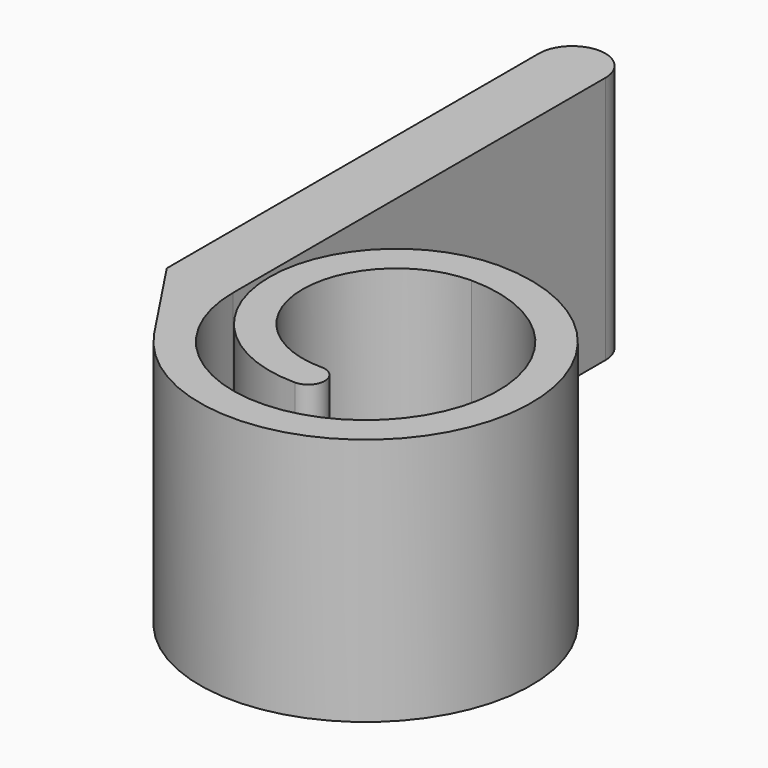
from build123d import *

# Parameters (mm, degrees)
F1_DEPTH = 9.525


with BuildPart() as f1:
    # F0 (on Top) → F1 (new body)
    with BuildSketch(Plane.XY):
        with BuildLine():
            Line((-7.62, 0), (-5.291667, -3.510095))
            ThreePointArc((-5.291667, -3.510095), (5.595159, -3.002782), (0, 6.35))
            ThreePointArc((0, 6.35), (-4.86723, 1.48277), (0, -3.384459))
            ThreePointArc((0, -3.384459), (0.635, -2.749459), (0, -2.114459))
            ThreePointArc((0, -2.114459), (-3.59723, 1.48277), (0, 5.08))
            ThreePointArc((0, 5.08), (3.592102, -3.592102), (-5.08, 0))
            Line((-5.08, 0), (-5.08, 17.830187))
            ThreePointArc((-5.08, 17.830187), (-6.35, 19.100187), (-7.62, 17.830187))
            Line((-7.62, 17.830187), (-7.62, 0))
        make_face()
    extrude(amount=F1_DEPTH)


solid = f1.part
